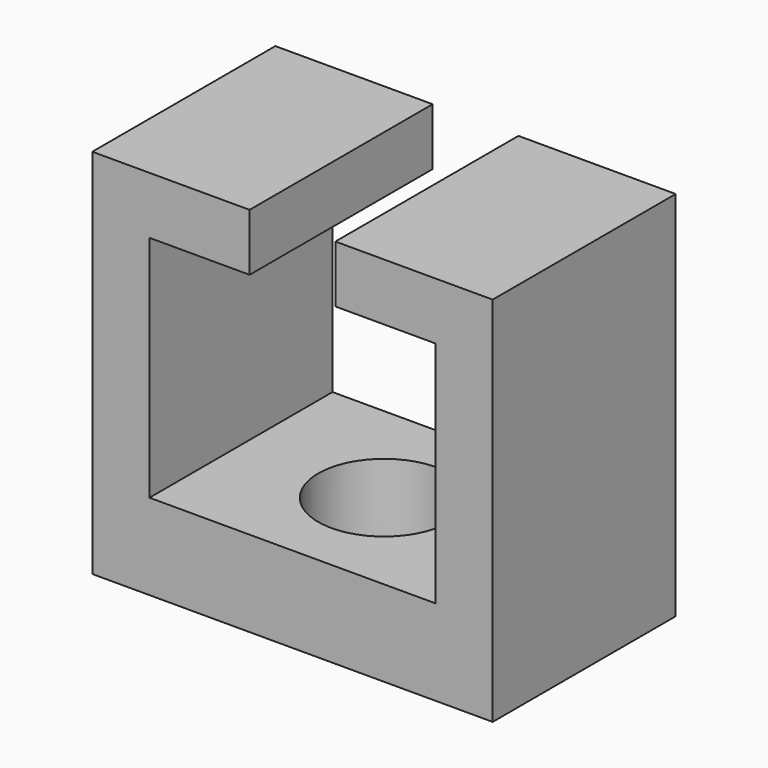
from build123d import *

# Parameters (mm, degrees)
SKETCH_W     = 14
SKETCH_H     = 8
SKETCH_R     = 2.3
PAD_DEPTH    = 3
SKETCH001_W  = 2
SKETCH001_H  = 8
PAD001_DEPTH = 10
SKETCH003_W  = 8
SKETCH003_H  = 2
PAD003_DEPTH = 3.5
SKETCH004_W  = 8
SKETCH004_H  = 2
PAD004_DEPTH = 3.5


with BuildPart() as pad001:
    # Sketch → Pad (new body)
    with BuildSketch(Plane.XY):
        Rectangle(SKETCH_W, SKETCH_H)
        Circle(SKETCH_R, mode=Mode.SUBTRACT)
    extrude(amount=PAD_DEPTH)

    # Sketch001 → Pad001 (new body)
    with BuildSketch(Plane.XY.offset(3)):
        with Locations((-6, 0)):
            Rectangle(SKETCH001_W, SKETCH001_H)
        with Locations((6, 0)):
            Rectangle(SKETCH001_W, SKETCH001_H)
    extrude(amount=PAD001_DEPTH)


with BuildPart() as pad003:
    # Pad003 base: copy of Pad001
    add(pad001.part)

    # Sketch003 → Pad003 (new body)
    with BuildSketch(Plane(origin=(5, 0, 0), x_dir=(0, -1, 0), z_dir=(-1, 0, 0))):
        with Locations((0, 12)):
            Rectangle(SKETCH003_W, SKETCH003_H)
    extrude(amount=PAD003_DEPTH)


with BuildPart() as fusion:
    # Pad004 base: copy of Pad001
    add(pad001.part)

    # Sketch004 → Pad004 (new body)
    with BuildSketch(Plane.YZ.offset(-5)):
        with Locations((0, 12)):
            Rectangle(SKETCH004_W, SKETCH004_H)
    extrude(amount=PAD004_DEPTH)

    # Fusion: union Pad003
    add(pad003.part)


solid = fusion.part
